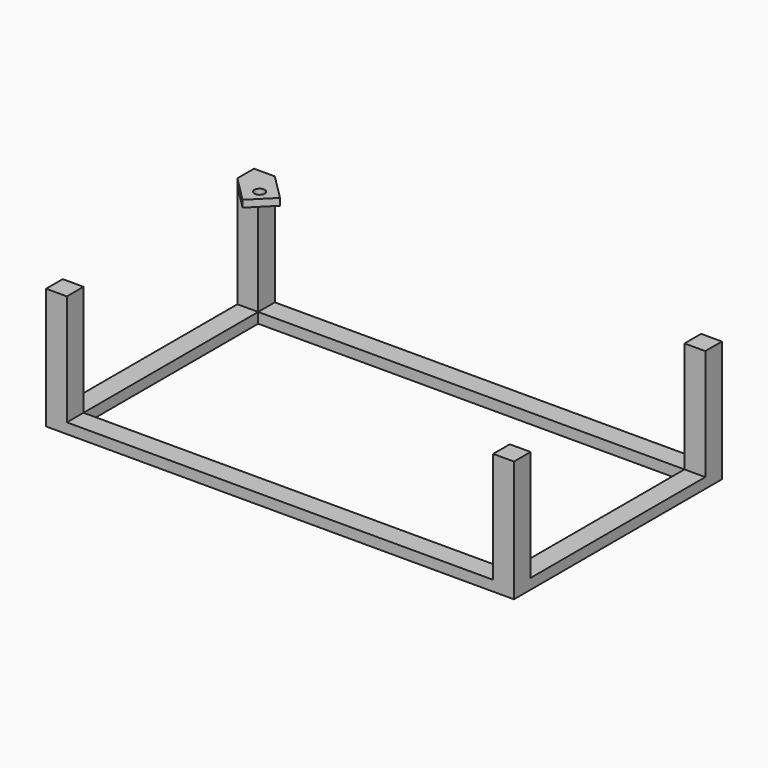
from build123d import *

# Parameters (mm, degrees)
F0_W     = 123
F0_H     = 6
F0_W_2   = 6
F0_H_2   = 63
F1_DEPTH = 3
F2_DEPTH = 35
F3_R     = 1.5
F4_DEPTH = 2


with BuildPart() as f1:
    # F0 (on Top) → F1 (new body)
    with BuildSketch(Plane.XY):
        with Locations((0, 34.5)):
            Rectangle(F0_W, F0_H)
        with Locations((-64.5, 0)):
            Rectangle(F0_W_2, F0_H_2)
        with Locations((-64.5, -34.5)):
            Rectangle(F0_W_2, F0_H)
        with Locations((0, -34.5)):
            Rectangle(F0_W, F0_H)
        with Locations((64.5, 0)):
            Rectangle(F0_W_2, F0_H_2)
        with Locations((64.5, -34.5)):
            Rectangle(F0_W_2, F0_H)
        with Locations((64.5, 34.5)):
            Rectangle(F0_W_2, F0_H)
        with Locations((-64.5, 34.5)):
            Rectangle(F0_W_2, F0_H)
    extrude(amount=F1_DEPTH)

    # F0 (on Top) → F2 (join)
    with BuildSketch(Plane.XY):
        with Locations((-64.5, -34.5)):
            Rectangle(F0_W_2, F0_H)
        with Locations((64.5, -34.5)):
            Rectangle(F0_W_2, F0_H)
        with Locations((64.5, 34.5)):
            Rectangle(F0_W_2, F0_H)
        with Locations((-64.5, 34.5)):
            Rectangle(F0_W_2, F0_H)
    extrude(amount=F2_DEPTH)

    # F3 (on face) → F4 (join)
    with BuildSketch(Plane.XY.offset(35)):
        Polygon((-61.5, 31.5), (-67.5, 31.5), (-60.025126, 24.025126), (-54.025126, 30.025126), (-61.5, 37.5), align=None)
        with Locations((-59.5, 29.5)):
            Circle(F3_R, mode=Mode.SUBTRACT)
    extrude(amount=-F4_DEPTH)


solid = f1.part
